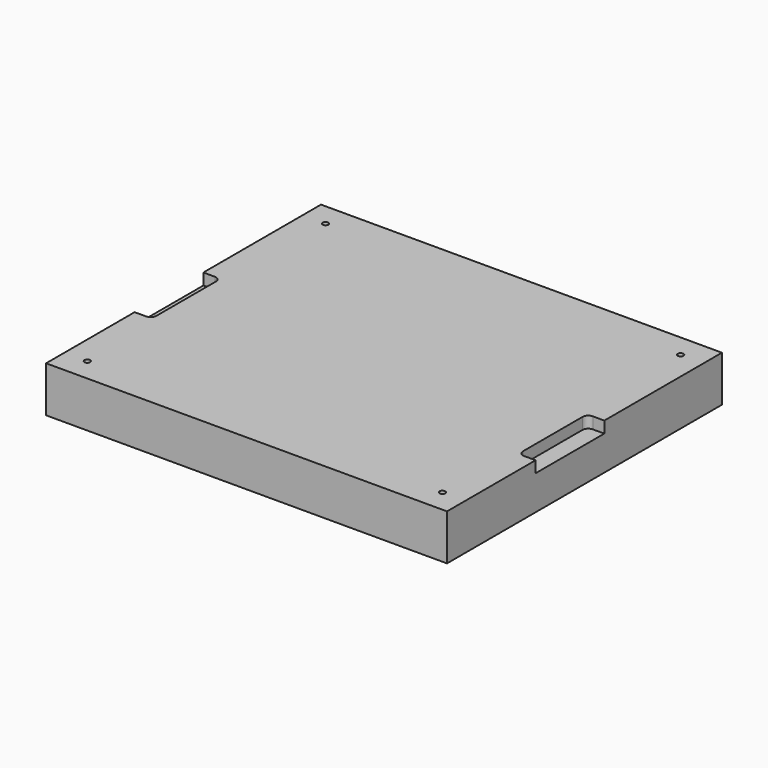
from build123d import *

# Parameters (mm, degrees)
F1_DEPTH = 80
F2_DEPTH = 60
F4_D     = 10
F4_DEPTH = 30
F4_TIP   = 3.0043030951


with BuildPart() as f1:
    # F0 (on Top) → F1 (new body)
    with BuildSketch(Plane.XY):
        with BuildLine():
            Line((350, 43.2613432407), (350, 300))
            Line((350, 300), (-350, 300))
            Line((-350, 300), (-350, 43.2613432407))
            Line((-350, 43.2613432407), (-330, 43.2613432407))
            ThreePointArc((-330, 43.2613432407), (-322.9289321881, 40.3324110526), (-320, 33.2613432407))
            Line((-320, 33.2613432407), (-320, -96.7386567593))
            ThreePointArc((-320, -96.7386567593), (-322.9289321881, -103.8097245711), (-330, -106.7386567593))
            Line((-330, -106.7386567593), (-350, -106.7386567593))
            Line((-350, -106.7386567593), (-350, -300))
            Line((-350, -300), (350, -300))
            Line((350, -300), (350, -106.7386567593))
            Line((350, -106.7386567593), (330, -106.7386567593))
            ThreePointArc((330, -106.7386567593), (322.9289321881, -103.8097245711), (320, -96.7386567593))
            Line((320, -96.7386567593), (320, 33.2613432407))
            ThreePointArc((320, 33.2613432407), (322.9289321881, 40.3324110526), (330, 43.2613432407))
            Line((330, 43.2613432407), (350, 43.2613432407))
        make_face()
    extrude(amount=F1_DEPTH)

    # F0 (on Top) → F2 (join)
    with BuildSketch(Plane.XY):
        with BuildLine():
            Line((350, -106.7386567593), (350, 43.2613432407))
            Line((350, 43.2613432407), (330, 43.2613432407))
            ThreePointArc((330, 43.2613432407), (322.9289321881, 40.3324110526), (320, 33.2613432407))
            Line((320, 33.2613432407), (320, -96.7386567593))
            ThreePointArc((320, -96.7386567593), (322.9289321881, -103.8097245711), (330, -106.7386567593))
            Line((330, -106.7386567593), (350, -106.7386567593))
        make_face()
        with BuildLine():
            Line((-330, 43.2613432407), (-350, 43.2613432407))
            Line((-350, 43.2613432407), (-350, -106.7386567593))
            Line((-350, -106.7386567593), (-330, -106.7386567593))
            ThreePointArc((-330, -106.7386567593), (-322.9289321881, -103.8097245711), (-320, -96.7386567593))
            Line((-320, -96.7386567593), (-320, 33.2613432407))
            ThreePointArc((-320, 33.2613432407), (-322.9289321881, 40.3324110526), (-330, 43.2613432407))
        make_face()
    extrude(amount=F2_DEPTH)

    # F4
    with Locations(Plane.XY.offset(80)):
        with Locations((310, -260), (-310, -260), (310, 260), (-310, 260)):
            Hole(F4_D / 2, depth=F4_DEPTH)
            with Locations((0, 0, -(F4_DEPTH + F4_TIP / 2))):  # 118° drill point
                Cone(0, F4_D / 2, F4_TIP, mode=Mode.SUBTRACT)


solid = f1.part
